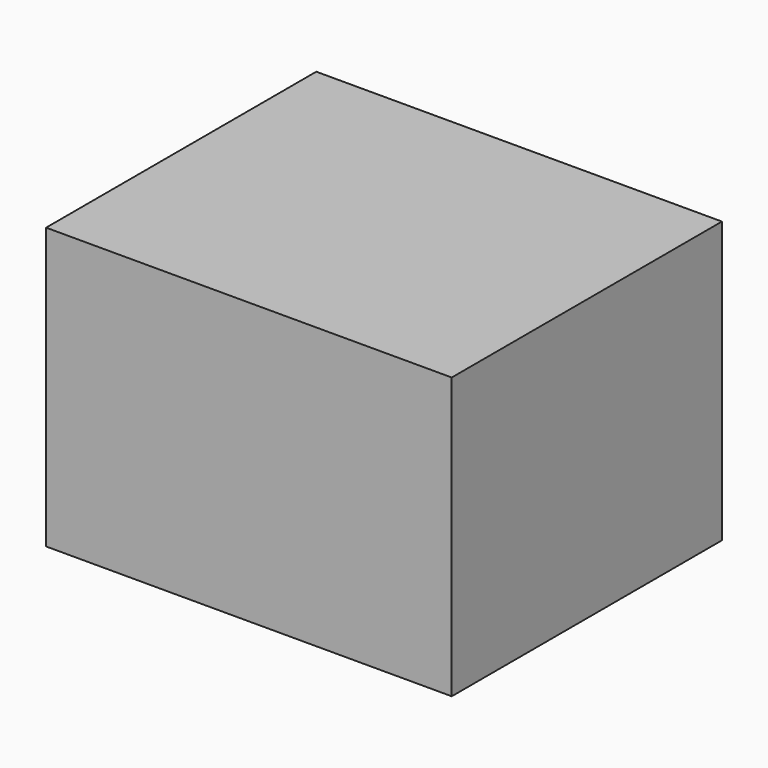
from build123d import *

# Parameters (mm, degrees)
F0_W     = 60.053522
F0_H     = 41.550544
F0_R     = 5
F1_DEPTH = 50


with BuildPart() as f1:
    # F0 (on Front) → F1 (new body)
    with BuildSketch(Plane.XZ):
        Rectangle(F0_W, F0_H)
        with Locations((-20.026761, -10.775272)):
            Circle(F0_R, mode=Mode.SUBTRACT)
        with Locations((20.026761, -10.775272)):
            Circle(F0_R, mode=Mode.SUBTRACT)
        with Locations((-20.026761, 10.775272)):
            Circle(F0_R, mode=Mode.SUBTRACT)
        with Locations((20.026761, 10.775272)):
            Circle(F0_R, mode=Mode.SUBTRACT)
        with Locations((-20.026761, 10.775272)):
            Circle(F0_R)
        with Locations((20.026761, 10.775272)):
            Circle(F0_R)
        with Locations((20.026761, -10.775272)):
            Circle(F0_R)
        with Locations((-20.026761, -10.775272)):
            Circle(F0_R)
    extrude(amount=F1_DEPTH)


solid = f1.part
